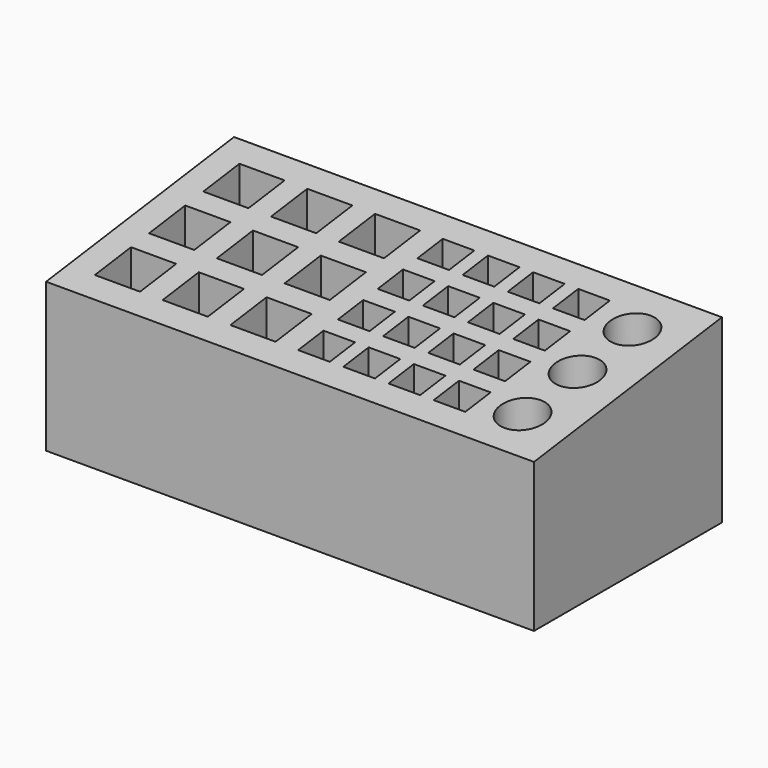
from build123d import *

# Parameters (mm, degrees)
F0_W     = 137.16
F0_H     = 66.04
F0_W_2   = 12.7
F0_H_2   = 12.7
F0_W_3   = 8.89
F0_H_3   = 8.89
F0_R     = 6.35
F1_DEPTH = 50.8
F2_DEPTH = 2.54
F4_DEPTH = 149.098


with BuildPart() as f1:
    # F0 (on Top) → F1 (new body)
    with BuildSketch(Plane.XY):
        with Locations((3.81, -19.05)):
            Rectangle(F0_W, F0_H)
        with Locations((-50.8, -38.1)):
            Rectangle(F0_W_2, F0_H_2, mode=Mode.SUBTRACT)
        with Locations((-31.75, -38.1)):
            Rectangle(F0_W_2, F0_H_2, mode=Mode.SUBTRACT)
        with Locations((-12.7, -38.1)):
            Rectangle(F0_W_2, F0_H_2, mode=Mode.SUBTRACT)
        with Locations((4.445, -40.005)):
            Rectangle(F0_W_3, F0_H_3, mode=Mode.SUBTRACT)
        with Locations((17.145, -40.005)):
            Rectangle(F0_W_3, F0_H_3, mode=Mode.SUBTRACT)
        with Locations((29.845, -40.005)):
            Rectangle(F0_W_3, F0_H_3, mode=Mode.SUBTRACT)
        with Locations((42.545, -40.005)):
            Rectangle(F0_W_3, F0_H_3, mode=Mode.SUBTRACT)
        with Locations((58.42, -38.608)):
            Circle(F0_R, mode=Mode.SUBTRACT)
        with Locations((4.445, -26.035)):
            Rectangle(F0_W_3, F0_H_3, mode=Mode.SUBTRACT)
        with Locations((17.145, -26.035)):
            Rectangle(F0_W_3, F0_H_3, mode=Mode.SUBTRACT)
        with Locations((29.845, -26.035)):
            Rectangle(F0_W_3, F0_H_3, mode=Mode.SUBTRACT)
        with Locations((42.545, -26.035)):
            Rectangle(F0_W_3, F0_H_3, mode=Mode.SUBTRACT)
        with Locations((58.42, -19.304)):
            Circle(F0_R, mode=Mode.SUBTRACT)
        with Locations((-50.8, -19.05)):
            Rectangle(F0_W_2, F0_H_2, mode=Mode.SUBTRACT)
        with Locations((-31.75, -19.05)):
            Rectangle(F0_W_2, F0_H_2, mode=Mode.SUBTRACT)
        with Locations((-12.7, -19.05)):
            Rectangle(F0_W_2, F0_H_2, mode=Mode.SUBTRACT)
        with Locations((-50.8, 0)):
            Rectangle(F0_W_2, F0_H_2, mode=Mode.SUBTRACT)
        with Locations((-31.75, 0)):
            Rectangle(F0_W_2, F0_H_2, mode=Mode.SUBTRACT)
        with Locations((-12.7, 0)):
            Rectangle(F0_W_2, F0_H_2, mode=Mode.SUBTRACT)
        with Locations((4.445, -12.065)):
            Rectangle(F0_W_3, F0_H_3, mode=Mode.SUBTRACT)
        with Locations((17.145, -12.065)):
            Rectangle(F0_W_3, F0_H_3, mode=Mode.SUBTRACT)
        with Locations((29.845, -12.065)):
            Rectangle(F0_W_3, F0_H_3, mode=Mode.SUBTRACT)
        with Locations((42.545, -12.065)):
            Rectangle(F0_W_3, F0_H_3, mode=Mode.SUBTRACT)
        with Locations((4.445, 1.905)):
            Rectangle(F0_W_3, F0_H_3, mode=Mode.SUBTRACT)
        with Locations((17.145, 1.905)):
            Rectangle(F0_W_3, F0_H_3, mode=Mode.SUBTRACT)
        with Locations((29.845, 1.905)):
            Rectangle(F0_W_3, F0_H_3, mode=Mode.SUBTRACT)
        with Locations((42.545, 1.905)):
            Rectangle(F0_W_3, F0_H_3, mode=Mode.SUBTRACT)
        with Locations((58.42, 0)):
            Circle(F0_R, mode=Mode.SUBTRACT)
    extrude(amount=F1_DEPTH)

    # F0 (on Top) → F2 (join)
    with BuildSketch(Plane.XY):
        with Locations((-50.8, 0)):
            Rectangle(F0_W_2, F0_H_2)
        with Locations((-31.75, 0)):
            Rectangle(F0_W_2, F0_H_2)
        with Locations((-50.8, -19.05)):
            Rectangle(F0_W_2, F0_H_2)
        with Locations((-31.75, -19.05)):
            Rectangle(F0_W_2, F0_H_2)
        with Locations((-50.8, -38.1)):
            Rectangle(F0_W_2, F0_H_2)
        with Locations((-31.75, -38.1)):
            Rectangle(F0_W_2, F0_H_2)
        with Locations((-12.7, -38.1)):
            Rectangle(F0_W_2, F0_H_2)
        with Locations((-12.7, -19.05)):
            Rectangle(F0_W_2, F0_H_2)
        with Locations((-12.7, 0)):
            Rectangle(F0_W_2, F0_H_2)
        with Locations((4.445, 1.905)):
            Rectangle(F0_W_3, F0_H_3)
        with Locations((4.445, -12.065)):
            Rectangle(F0_W_3, F0_H_3)
        with Locations((4.445, -26.035)):
            Rectangle(F0_W_3, F0_H_3)
        with Locations((4.445, -40.005)):
            Rectangle(F0_W_3, F0_H_3)
        with Locations((17.145, -40.005)):
            Rectangle(F0_W_3, F0_H_3)
        with Locations((17.145, -26.035)):
            Rectangle(F0_W_3, F0_H_3)
        with Locations((17.145, -12.065)):
            Rectangle(F0_W_3, F0_H_3)
        with Locations((17.145, 1.905)):
            Rectangle(F0_W_3, F0_H_3)
        with Locations((29.845, 1.905)):
            Rectangle(F0_W_3, F0_H_3)
        with Locations((42.545, 1.905)):
            Rectangle(F0_W_3, F0_H_3)
        with Locations((42.545, -12.065)):
            Rectangle(F0_W_3, F0_H_3)
        with Locations((29.845, -12.065)):
            Rectangle(F0_W_3, F0_H_3)
        with Locations((29.845, -26.035)):
            Rectangle(F0_W_3, F0_H_3)
        with Locations((42.545, -26.035)):
            Rectangle(F0_W_3, F0_H_3)
        with Locations((29.845, -40.005)):
            Rectangle(F0_W_3, F0_H_3)
        with Locations((42.545, -40.005)):
            Rectangle(F0_W_3, F0_H_3)
        with Locations((58.42, -38.608)):
            Circle(F0_R)
        with Locations((58.42, -19.304)):
            Circle(F0_R)
        with Locations((58.42, 0)):
            Circle(F0_R)
    extrude(amount=F2_DEPTH)

    # F3 (on face) → F4 (cut)
    with BuildSketch(Plane(origin=(-64.77, 0, 0), x_dir=(0, -1, 0), z_dir=(-1, 0, 0))):
        Polygon((52.07, 50.8), (-13.97, 50.8), (52.07, 41.841079), align=None)
    extrude(amount=-F4_DEPTH, mode=Mode.SUBTRACT)


solid = f1.part
